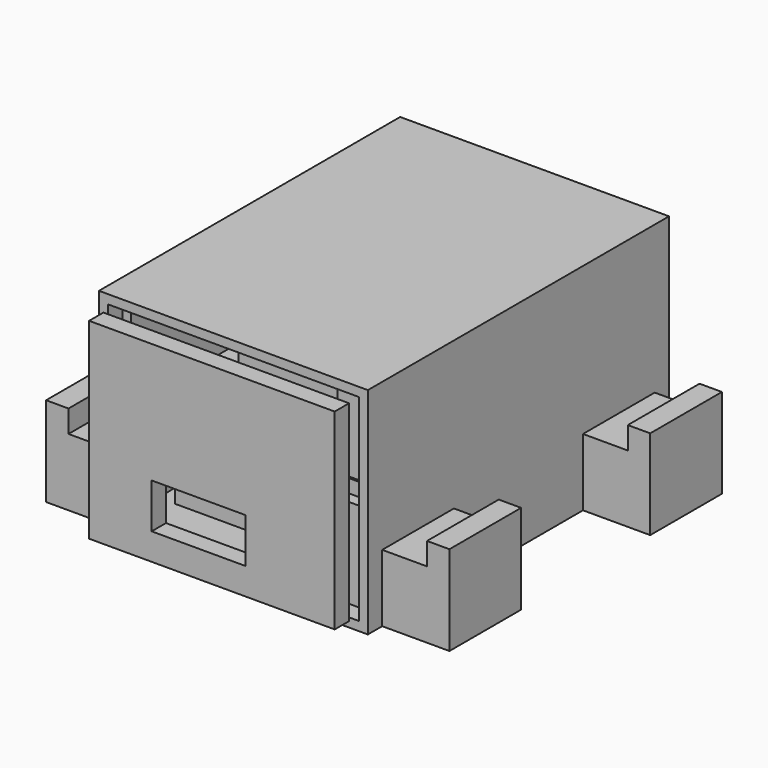
from build123d import *

# Parameters (mm, degrees)
SKETCH_W             = 25
SKETCH_H             = 37
PAD_DEPTH            = 1.5
SKETCH001_W          = 16
SKETCH001_H          = 26
PAD001_DEPTH         = 8.5
SKETCH002_W          = 18
SKETCH002_H          = 32.5
PAD002_DEPTH         = 9
SKETCH003_W          = 8
SKETCH003_H          = 2.5
PAD003_DEPTH         = 2
BODY_PITCH_ANGLE     = 90
BODY_PLACEMENT_ANGLE = -90
SKETCH004_W          = 30
SKETCH004_H          = 24
PAD004_DEPTH         = 38
SKETCH005_W          = 30
SKETCH005_H          = 24
PAD005_DEPTH         = 2
SKETCH006_W          = 30
SKETCH006_H          = 24
SKETCH006_W_2        = 28
SKETCH006_H_2        = 22
PAD006_DEPTH         = 2
SKETCH009_W          = 7.5
SKETCH009_H          = 10
PAD009_DEPTH         = 7.5
SKETCH010_W          = 2.5
SKETCH010_H          = 10
PAD010_DEPTH         = 2.5
SKETCH011_W          = 7.5
SKETCH011_H          = 10
PAD011_DEPTH         = 7.5
SKETCH012_W          = 2.5
SKETCH012_H          = 10
PAD012_DEPTH         = 2.5
SKETCH008_W          = 27.400057
SKETCH008_H          = 21.401446
SKETCH008_W_2        = 10.480933
SKETCH008_H_2        = 4.999118
PAD008_DEPTH         = 2


with BuildPart() as obj1:
    # Sketch → Pad (new body)
    with BuildSketch(Plane.YZ):
        with Locations((4.273874, -1.909899)):
            Rectangle(SKETCH_W, SKETCH_H)
    extrude(amount=PAD_DEPTH)

    # Sketch001 (on Face5 of Pad) → Pad001 (join)
    with BuildSketch(Plane(origin=(0, 0, 0), x_dir=(0, 1, 0), z_dir=(-1, 0, 0))):
        with Locations((3.273874, 5.909899)):
            Rectangle(SKETCH001_W, SKETCH001_H)
    extrude(amount=PAD001_DEPTH)

    # Sketch002 (on Face5 of Pad001) → Pad002 (join)
    with BuildSketch(Plane.YZ.offset(1.5)):
        with Locations((2.773874, -2.159899)):
            Rectangle(SKETCH002_W, SKETCH002_H)
    extrude(amount=PAD002_DEPTH)

    # Sketch003 (on Face14 of Pad002) → Pad003 (join)
    with BuildSketch(Plane(origin=(0, 0, 14.090101), x_dir=(0, -1, 0), z_dir=(0, 0, 1))):
        with Locations((-2.773874, 6.25)):
            Rectangle(SKETCH003_W, SKETCH003_H)
    extrude(amount=PAD003_DEPTH)


with BuildPart() as obj1_1:
    # Body pitch: moved
    add(obj1.part.rotate(Axis((0, 0, 0), (0, 1, 0)), BODY_PITCH_ANGLE))


with BuildPart() as obj1_2:
    # Body placement: moved
    add(obj1_1.part.moved(Location((7.68397, -0.0001, 3.86387))).rotate(Axis((7.68397, -0.0001, 3.86387), (0, 0, 1)), BODY_PLACEMENT_ANGLE))


with BuildPart() as case_body:
    # Sketch004 → Pad004 (new body)
    with BuildSketch(Plane.XZ):
        with Locations((11.915093, 2.798123)):
            Rectangle(SKETCH004_W, SKETCH004_H)
        Polygon((24.915093, 4.298123), (24.915093, 1.798123), (21.915093, 1.798123), (21.915093, -7.201877), (-1.084907, -7.201877), (-1.084907, 12.798123), (21.915093, 12.798123), (21.915093, 4.298123), align=None, mode=Mode.SUBTRACT)
    extrude(amount=PAD004_DEPTH)

    # Sketch005 (on Face13 of Pad004) → Pad005 (join)
    with BuildSketch(Plane(origin=(0, 0, 0), x_dir=(1, 0, 0), z_dir=(0, 1, 0))):
        with Locations((11.915093, -2.798123)):
            Rectangle(SKETCH005_W, SKETCH005_H)
    extrude(amount=PAD005_DEPTH)

    # Sketch006 (on Face5 of Pad005) → Pad006 (join)
    with BuildSketch(Plane.XZ.offset(38)):
        with Locations((11.915093, 2.798123)):
            Rectangle(SKETCH006_W, SKETCH006_H)
        with Locations((11.915093, 2.798123)):
            Rectangle(SKETCH006_W_2, SKETCH006_H_2, mode=Mode.SUBTRACT)
    extrude(amount=PAD006_DEPTH)

    # Sketch009 (on Face2 of Pad006) → Pad009 (join)
    with BuildSketch(Plane(origin=(26.915093, 0, 0), x_dir=(0, 0, 1), z_dir=(1, 0, 0))):
        with Locations((-5.451877, 33)):
            Rectangle(SKETCH009_W, SKETCH009_H)
        with Locations((-5.451877, 5)):
            Rectangle(SKETCH009_W, SKETCH009_H)
    extrude(amount=PAD009_DEPTH)

    # Sketch010 (on Face7 of Pad009) → Pad010 (join)
    with BuildSketch(Plane(origin=(0, 0, -1.701877), x_dir=(-1, 0, 0), z_dir=(0, 0, 1))):
        with Locations((-33.165093, 33)):
            Rectangle(SKETCH010_W, SKETCH010_H)
        with Locations((-33.165093, 5)):
            Rectangle(SKETCH010_W, SKETCH010_H)
    extrude(amount=PAD010_DEPTH)

    # Sketch011 (on Face3 of Pad010) → Pad011 (join)
    with BuildSketch(Plane(origin=(-3.084907, 0, 0), x_dir=(0, 0, -1), z_dir=(-1, 0, 0))):
        with Locations((5.451877, 33)):
            Rectangle(SKETCH011_W, SKETCH011_H)
        with Locations((5.451877, 5)):
            Rectangle(SKETCH011_W, SKETCH011_H)
    extrude(amount=PAD011_DEPTH)

    # Sketch012 (on Face14 of Pad011) → Pad012 (join)
    with BuildSketch(Plane(origin=(0, 0, -1.701877), x_dir=(-1, 0, 0), z_dir=(0, 0, 1))):
        with Locations((9.334907, 33)):
            Rectangle(SKETCH012_W, SKETCH012_H)
        with Locations((9.334907, 5)):
            Rectangle(SKETCH012_W, SKETCH012_H)
    extrude(amount=PAD012_DEPTH)


with BuildPart() as case_body_1:
    # Body001 placement: moved
    add(case_body.part.moved(Location((0, 21, 0))))


with BuildPart() as case_door:
    # Sketch008 → Pad008 (new body)
    with BuildSketch(Plane.XZ):
        with Locations((11.91514, 2.791275)):
            Rectangle(SKETCH008_W, SKETCH008_H)
        with Locations((10.434812, -2.415178)):
            Rectangle(SKETCH008_W_2, SKETCH008_H_2, mode=Mode.SUBTRACT)
    extrude(amount=PAD008_DEPTH)


with BuildPart() as case_door_1:
    # Body002 placement: moved
    add(case_door.part.moved(Location((0, -20, 0))))


solid = Compound([obj1_2.part, case_body_1.part, case_door_1.part])
